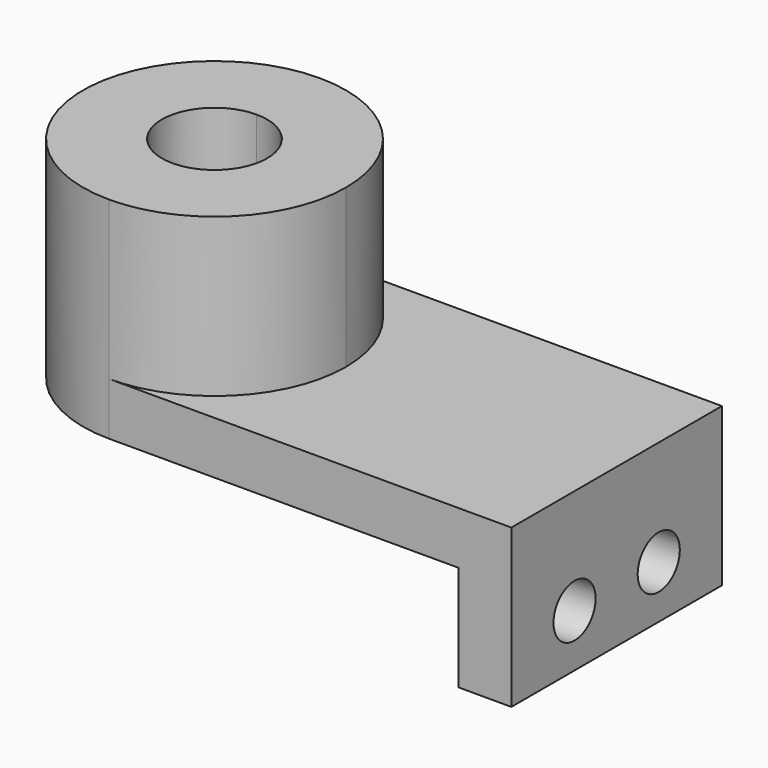
from build123d import *

# Parameters (mm, degrees)
F1_DEPTH = 12.7
F2_DEPTH = 50.8
F3_R     = 6.35
F4_DEPTH = 12.7


with BuildPart() as f1:
    # F0 (on Top) → F1 (new body)
    with BuildSketch(Plane.XY):
        with BuildLine():
            Line((-48.517924, -31.75), (48.517924, -31.75))
            Line((48.517924, -31.75), (48.517924, 31.75))
            Line((48.517924, 31.75), (-48.517924, 31.75))
            ThreePointArc((-48.517924, 31.75), (-26.067284, 22.45064), (-16.767924, 0))
            ThreePointArc((-16.767924, 0), (-26.067284, -22.45064), (-48.517924, -31.75))
        make_face()
        with BuildLine():
            ThreePointArc((-48.517924, 31.75), (-80.267924, 0), (-48.517924, -31.75))
            Line((-48.517924, -31.75), (-48.517924, -12.7))
            ThreePointArc((-48.517924, -12.7), (-61.217924, 0), (-48.517924, 12.7))
            Line((-48.517924, 12.7), (-48.517924, 31.75))
        make_face()
    extrude(amount=F1_DEPTH)

    # F0 (on Top) → F2 (join)
    with BuildSketch(Plane.XY):
        with BuildLine():
            Line((-48.517924, -12.7), (-48.517924, -31.75))
            ThreePointArc((-48.517924, -31.75), (-26.067284, -22.45064), (-16.767924, 0))
            ThreePointArc((-16.767924, 0), (-26.067284, 22.45064), (-48.517924, 31.75))
            Line((-48.517924, 31.75), (-48.517924, 12.7))
            ThreePointArc((-48.517924, 12.7), (-39.537668, 8.980256), (-35.817924, 0))
            ThreePointArc((-35.817924, 0), (-39.537668, -8.980256), (-48.517924, -12.7))
        make_face()
        with BuildLine():
            ThreePointArc((-48.517924, 31.75), (-80.267924, 0), (-48.517924, -31.75))
            Line((-48.517924, -31.75), (-48.517924, -12.7))
            ThreePointArc((-48.517924, -12.7), (-61.217924, 0), (-48.517924, 12.7))
            Line((-48.517924, 12.7), (-48.517924, 31.75))
        make_face()
    extrude(amount=F2_DEPTH)

    # F3 (on face) → F4 (join)
    with BuildSketch(Plane.YZ.offset(48.517924)):
        Polygon((31.75, 12.7), (-31.75, 12.7), (-31.75, -25.4), (0, -25.4), (31.75, -25.4), align=None)
        with Locations((-12.7, -12.7)):
            Circle(F3_R, mode=Mode.SUBTRACT)
        with Locations((12.7, -12.7)):
            Circle(F3_R, mode=Mode.SUBTRACT)
    extrude(amount=-F4_DEPTH)


solid = f1.part
